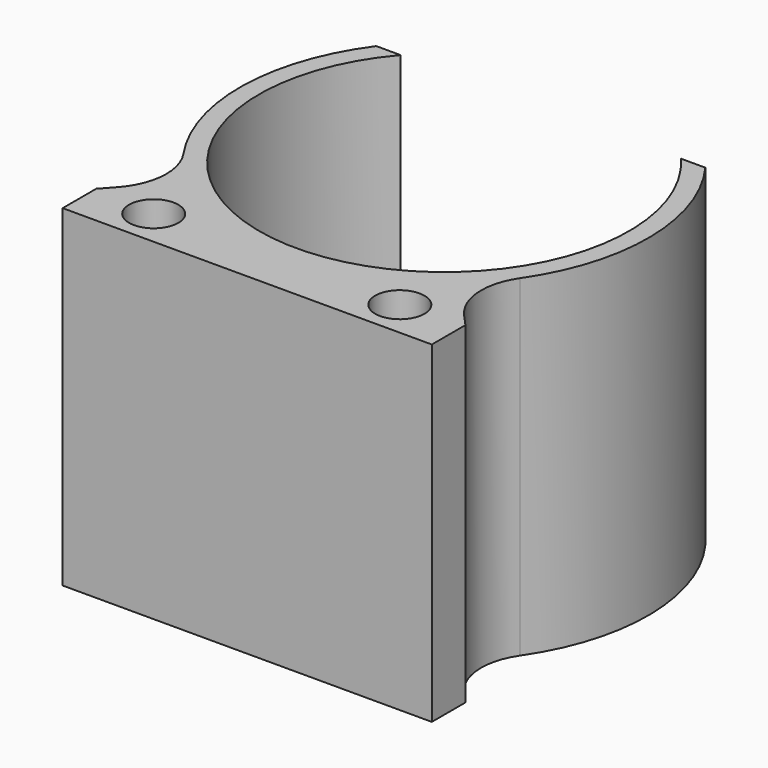
from build123d import *

# Parameters (mm, degrees)
F0_R     = 2.54
F1_DEPTH = 34.29


with BuildPart() as f1:
    # F0 (on Top) → F1 (new body)
    with BuildSketch(Plane.XY):
        with BuildLine():
            Line((-14.467765, 12.470939), (-16.982081, 12.470939))
            ThreePointArc((-16.982081, 12.470939), (-21.066697, 0.331171), (-17.365682, -11.930988))
            ThreePointArc((-17.365682, -11.930988), (-16.263526, -15.949203), (-17.889298, -19.785564))
            Line((-17.889298, -19.785564), (-19.05, -21.0693))
            Line((-19.05, -21.0693), (-19.05, -25.4))
            Line((-19.05, -25.4), (0, -25.4))
            Line((0, -25.4), (19.05, -25.4))
            Line((19.05, -25.4), (19.05, -21.0693))
            Line((19.05, -21.0693), (17.889298, -19.785564))
            ThreePointArc((17.889298, -19.785564), (16.263526, -15.949203), (17.365682, -11.930988))
            ThreePointArc((17.365682, -11.930988), (21.066697, 0.331171), (16.982081, 12.470939))
            Line((16.982081, 12.470939), (14.467765, 12.470939))
            ThreePointArc((14.467765, 12.470939), (0, -19.1008), (-14.467765, 12.470939))
        make_face()
        with Locations((-12.7, -21.59)):
            Circle(F0_R, mode=Mode.SUBTRACT)
        with Locations((12.7, -21.59)):
            Circle(F0_R, mode=Mode.SUBTRACT)
    extrude(amount=F1_DEPTH)


solid = f1.part
